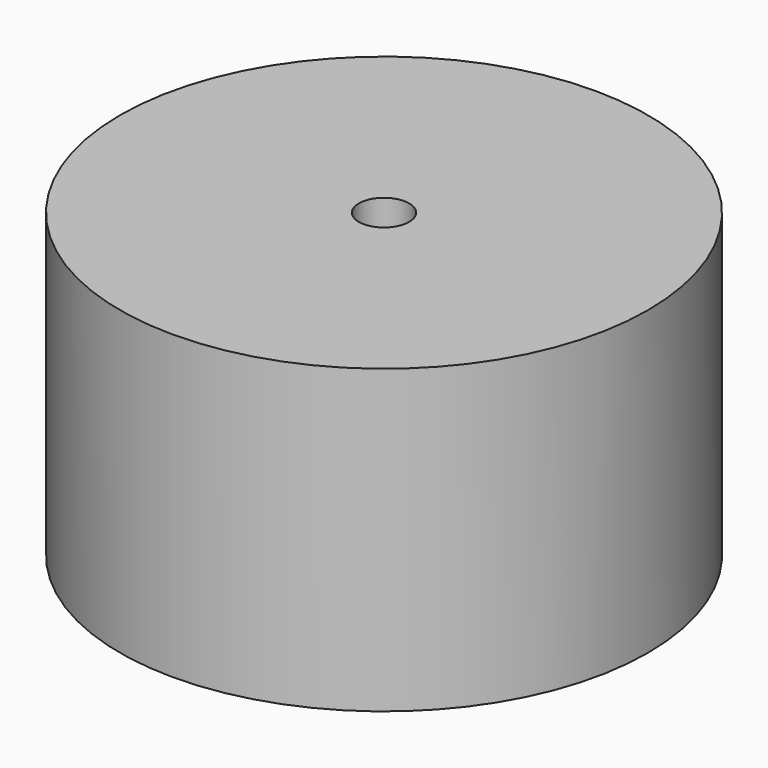
from build123d import *

# Parameters (mm, degrees)
F0_R     = 10.5
F0_R_2   = 1.625
F1_DEPTH = 12
F2_D     = 3.25
F2_DEPTH = 1.72
F2_TIP   = 0.9763985059


with BuildPart() as f1:
    # F0 (on Top) → F1 (new body)
    with BuildSketch(Plane.XY):
        Circle(F0_R)
        with Locations((-5.25, 0)):
            Circle(F0_R_2, mode=Mode.SUBTRACT)
        with BuildLine():
            ThreePointArc((-1, 0), (0, 1), (1, 0))
            ThreePointArc((1, 0), (0, -1), (-1, 0))
        make_face(mode=Mode.SUBTRACT)
        with BuildLine():
            ThreePointArc((6.875, 0), (5.25, -1.625), (3.625, 0))
            ThreePointArc((3.625, 0), (5.25, 1.625), (6.875, 0))
        make_face(mode=Mode.SUBTRACT)
        with Locations((-5.25, 0)):
            Circle(F0_R_2)
        with BuildLine():
            ThreePointArc((6.875, 0), (5.25, 1.625), (3.625, 0))
            ThreePointArc((3.625, 0), (5.25, -1.625), (6.875, 0))
        make_face()
    extrude(amount=F1_DEPTH)

    # F2
    with Locations(Plane(origin=(0, 0, 0), x_dir=(1, 0, 0), z_dir=(0, 0, -1))):
        with Locations((-5.25, 0), (5.25, 0)):
            Hole(F2_D / 2, depth=F2_DEPTH)
            with Locations((0, 0, -(F2_DEPTH + F2_TIP / 2))):  # 118° drill point
                Cone(0, F2_D / 2, F2_TIP, mode=Mode.SUBTRACT)


solid = f1.part
